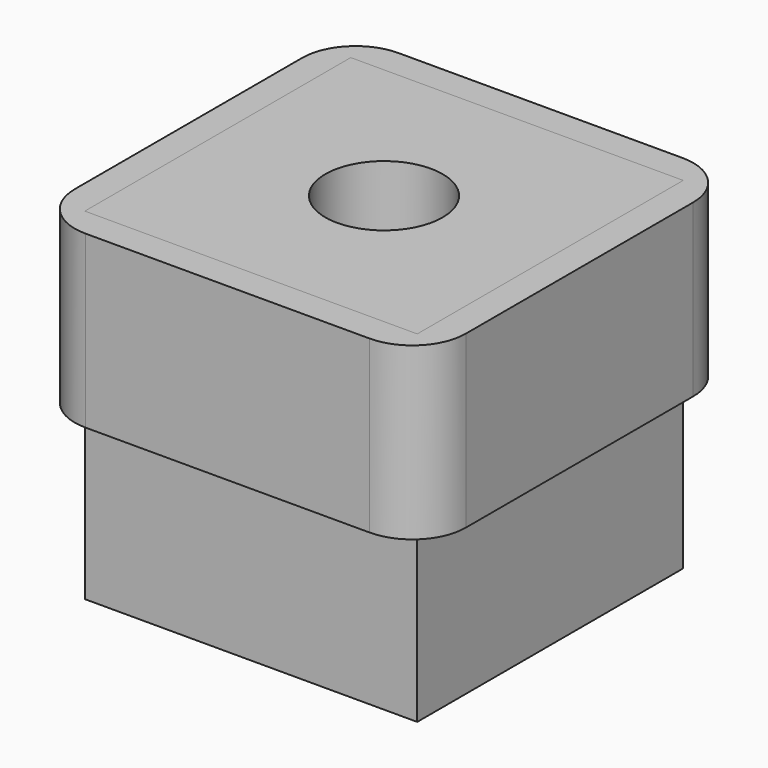
from build123d import *

# Parameters (mm, degrees)
F0_W     = 6.477
F0_H     = 6.477
F0_R     = 1.143
F1_DEPTH = 3.3274
F0_W_2   = 7.62
F0_H_2   = 7.62
F2_DEPTH = 3.3274
F3_R     = 1.042457


with BuildPart() as f1:
    # F0 (on Top) → F1 (new body, symmetric)
    with BuildSketch(Plane.XY):
        Rectangle(F0_W, F0_H)
        Circle(F0_R, mode=Mode.SUBTRACT)
    extrude(amount=F1_DEPTH, both=True)


with BuildPart() as f2:
    # F0 (on Top) → F2 (new body)
    with BuildSketch(Plane.XY):
        Rectangle(F0_W_2, F0_H_2)
        Rectangle(F0_W, F0_H, mode=Mode.SUBTRACT)
    extrude(amount=F2_DEPTH)

    # F3
    f3_edges = [f2.edges().sort_by_distance(p)[0] for p in [
        (-3.81, 3.81, 1.6637),
        (-3.81, -3.81, 1.6637),
        (3.81, -3.81, 1.6637),
        (3.81, 3.81, 1.6637),
    ]]
    fillet(f3_edges, radius=F3_R)


solid = Compound([f1.part, f2.part])
